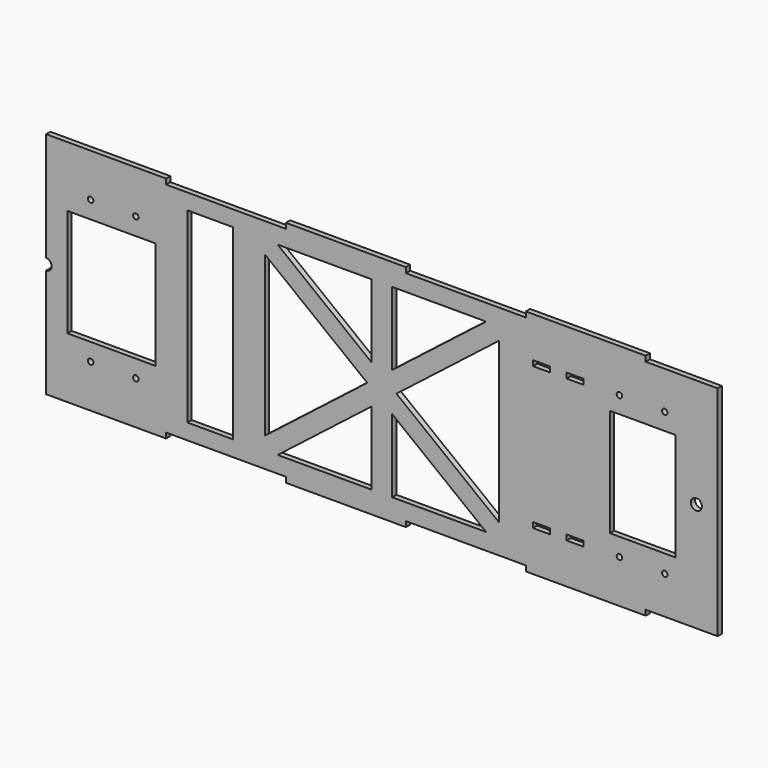
from build123d import *

# Parameters (mm, degrees)
F0_R     = 1.64084
F0_W     = 10
F0_H     = 3.175
F0_R_2   = 3.302
F0_W_2   = 52.4243835688
F0_H_2   = 64.2
F0_W_3   = 27.0990398764
F0_H_3   = 111.2592631512
F0_W_4   = 39.0626990616
F1_DEPTH = 3.175


with BuildPart() as f1:
    # F0 (on Front) → F1 (new body)
    with BuildSketch(Plane.XZ):
        with BuildLine():
            Line((79.2994276966, -50.2024036679), (122.1565705538, -50.2024036679))
            Line((122.1565705538, -50.2024036679), (122.1565705538, 79.7975963321))
            Line((122.1565705538, 79.7975963321), (79.2994276966, 79.7975963321))
            Line((79.2994276966, 79.7975963321), (79.2994276966, 82.9725963321))
            Line((79.2994276966, 82.9725963321), (7.870856268, 82.9725963321))
            Line((7.870856268, 82.9725963321), (7.870856268, 79.7975963321))
            Line((7.870856268, 79.7975963321), (-63.5577151605, 79.7975963321))
            Line((-63.5577151605, 79.7975963321), (-63.5577151605, 82.9725963321))
            Line((-63.5577151605, 82.9725963321), (-134.9862865891, 82.9725963321))
            Line((-134.9862865891, 82.9725963321), (-134.9862865891, 79.7975963321))
            Line((-134.9862865891, 79.7975963321), (-206.4148580177, 79.7975963321))
            Line((-206.4148580177, 79.7975963321), (-206.4148580177, 82.9725963321))
            Line((-206.4148580177, 82.9725963321), (-277.8434294462, 82.9725963321))
            Line((-277.8434294462, 82.9725963321), (-277.8434294462, 79.7975963321))
            Line((-277.8434294462, 79.7975963321), (-277.8434294462, 18.0995963321))
            ThreePointArc((-277.8434294462, 18.0995963321), (-275.5085628548, 17.1324629236), (-274.5414294462, 14.7975963321))
            ThreePointArc((-274.5414294462, 14.7975963321), (-275.5085628548, 12.4627297406), (-277.8434294462, 11.4955963321))
            Line((-277.8434294462, 11.4955963321), (-277.8434294462, -50.2024036679))
            Line((-277.8434294462, -50.2024036679), (-277.8434294462, -53.3774036679))
            Line((-277.8434294462, -53.3774036679), (-206.4148580177, -53.3774036679))
            Line((-206.4148580177, -53.3774036679), (-206.4148580177, -50.2024036679))
            Line((-206.4148580177, -50.2024036679), (-134.9862865891, -50.2024036679))
            Line((-134.9862865891, -50.2024036679), (-134.9862865891, -53.3774036679))
            Line((-134.9862865891, -53.3774036679), (-63.5577151605, -53.3774036679))
            Line((-63.5577151605, -53.3774036679), (-63.5577151605, -50.2024036679))
            Line((-63.5577151605, -50.2024036679), (7.870856268, -50.2024036679))
            Line((7.870856268, -50.2024036679), (7.870856268, -53.3774036679))
            Line((7.870856268, -53.3774036679), (79.2994276966, -53.3774036679))
            Line((79.2994276966, -53.3774036679), (79.2994276966, -50.2024036679))
        make_face()
        with Locations((-251.3181294462, -27.6524106679)):
            Circle(F0_R, mode=Mode.SUBTRACT)
        with Locations((-224.3687294462, -27.6524106679)):
            Circle(F0_R, mode=Mode.SUBTRACT)
        with Locations((17.1565705538, -27.6524036679)):
            Rectangle(F0_W, F0_H, mode=Mode.SUBTRACT)
        with Locations((37.1565705538, -27.6524036679)):
            Rectangle(F0_W, F0_H, mode=Mode.SUBTRACT)
        with Locations((63.6818705538, -27.6524106672)):
            Circle(F0_R, mode=Mode.SUBTRACT)
        with Locations((90.6312705538, -27.6524106672)):
            Circle(F0_R, mode=Mode.SUBTRACT)
        Polygon((-8.1668528914, -32.7346504676), (-8.1668528914, -40.3546504676), (-15.7868528914, -40.3546504676), (-71.6971936822, -40.3546504676), (-83.9896652103, -40.3546504676), (-139.900006001, -40.3546504676), (-147.520006001, -40.3546504676), (-147.520006001, -32.7346504676), (-147.520006001, 62.3298431318), (-147.520006001, 69.9498431318), (-139.900006001, 69.9498431318), (-83.9896652103, 69.9498431318), (-71.6971936822, 69.9498431318), (-15.7868528915, 69.9498431318), (-8.1668528914, 69.9498431318), (-8.1668528914, 62.3298431318), align=None, mode=Mode.SUBTRACT)
        with Locations((109.4565705538, 14.7975963321)):
            Circle(F0_R_2, mode=Mode.SUBTRACT)
        with Locations((-238.9312376618, 14.7975963321)):
            Rectangle(F0_W_2, F0_H_2, mode=Mode.SUBTRACT)
        with Locations((-180.1195259392, 14.7975963321)):
            Rectangle(F0_W_3, F0_H_3, mode=Mode.SUBTRACT)
        with Locations((-251.3181294462, 57.2475963321)):
            Circle(F0_R, mode=Mode.SUBTRACT)
        with Locations((-224.3687294462, 57.2475963321)):
            Circle(F0_R, mode=Mode.SUBTRACT)
        with Locations((77.5555704206, 15.0792245534)):
            Rectangle(F0_W_4, F0_H_2, mode=Mode.SUBTRACT)
        with Locations((17.1565705538, 57.2475963321)):
            Rectangle(F0_W, F0_H, mode=Mode.SUBTRACT)
        with Locations((37.1565705538, 57.2475963321)):
            Rectangle(F0_W, F0_H, mode=Mode.SUBTRACT)
        with Locations((63.6818705538, 57.2475963321)):
            Circle(F0_R, mode=Mode.SUBTRACT)
        with Locations((90.6312705538, 57.2475963321)):
            Circle(F0_R, mode=Mode.SUBTRACT)
        Polygon((-147.520006001, 62.3298431318), (-86.5412493668, 14.7975963321), (-83.9896652103, 16.7865271426), (-83.9896652103, 26.3683687987), (-139.900006001, 69.9498431318), (-147.520006001, 69.9498431318), align=None)
        Polygon((-69.1456095257, 14.7975963321), (-8.1668528915, 62.3298431318), (-8.1668528914, 69.9498431318), (-15.7868528915, 69.9498431318), (-71.6971936822, 26.3683687987), (-71.6971936822, 16.7865271426), align=None)
        Polygon((-15.7868528914, -40.3546504676), (-8.1668528914, -40.3546504676), (-8.1668528914, -32.7346504676), (-69.1456095257, 14.7975963321), (-71.6971936822, 12.8086655216), (-71.6971936822, 3.2268238655), align=None)
        Polygon((-147.520006001, -40.3546504676), (-139.900006001, -40.3546504676), (-83.9896652103, 3.2268238655), (-83.9896652103, 12.8086655216), (-86.5412493668, 14.7975963321), (-147.520006001, -32.7346504676), align=None)
        Polygon((-83.9896652103, -40.3546504676), (-71.6971936822, -40.3546504676), (-71.6971936822, 3.2268238655), (-77.8434294462, 8.0177446936), (-83.9896652103, 3.2268238655), align=None)
        Polygon((-77.8434294462, 8.0177446936), (-71.6971936822, 3.2268238655), (-71.6971936822, 12.8086655216), align=None)
        Polygon((-83.9896652103, 3.2268238655), (-77.8434294462, 8.0177446936), (-83.9896652103, 12.8086655216), align=None)
        Polygon((-86.5412493668, 14.7975963321), (-83.9896652103, 12.8086655216), (-83.9896652103, 16.7865271426), align=None)
        Polygon((-83.9896652103, 12.8086655216), (-77.8434294462, 8.0177446936), (-71.6971936822, 12.8086655216), (-71.6971936822, 16.7865271426), (-77.8434294462, 21.5774479707), (-83.9896652103, 16.7865271426), align=None)
        Polygon((-77.8434294462, 21.5774479707), (-71.6971936822, 16.7865271426), (-71.6971936822, 26.3683687987), align=None)
        Polygon((-83.9896652103, 16.7865271426), (-77.8434294462, 21.5774479707), (-83.9896652103, 26.3683687987), align=None)
        Polygon((-83.9896652103, 26.3683687987), (-77.8434294462, 21.5774479707), (-71.6971936822, 26.3683687987), (-71.6971936822, 69.9498431318), (-83.9896652103, 69.9498431318), align=None)
        Polygon((-71.6971936822, 12.8086655216), (-69.1456095257, 14.7975963321), (-71.6971936822, 16.7865271426), align=None)
    extrude(amount=F1_DEPTH)


solid = f1.part
